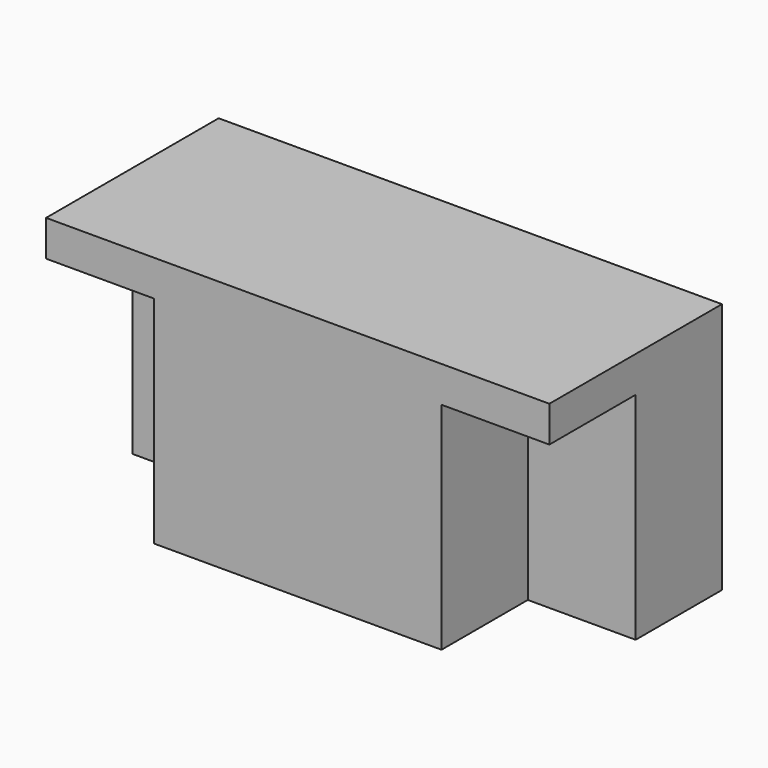
from build123d import *

# Parameters (mm, degrees)
F0_W     = 140
F0_H     = 70
F1_DEPTH = 60
F2_W     = 30
F2_H     = 30
F3_DEPTH = 60
F4_W     = 30
F4_H     = 30
F5_DEPTH = 60


with BuildPart() as f1:
    # F0 (on Front) → F1 (new body)
    with BuildSketch(Plane.XZ):
        with Locations((7.357027, 12.952588)):
            Rectangle(F0_W, F0_H)
    extrude(amount=F1_DEPTH)

    # F2 (on face) → F3 (cut)
    with BuildSketch(Plane(origin=(0, 0, -22.047412), x_dir=(1, 0, 0), z_dir=(0, 0, -1))):
        with Locations((-47.642973, 45)):
            Rectangle(F2_W, F2_H)
    extrude(amount=-F3_DEPTH, mode=Mode.SUBTRACT)

    # F4 (on face) → F5 (cut)
    with BuildSketch(Plane(origin=(0, 0, -22.047412), x_dir=(1, 0, 0), z_dir=(0, 0, -1))):
        with Locations((62.357027, 45)):
            Rectangle(F4_W, F4_H)
    extrude(amount=-F5_DEPTH, mode=Mode.SUBTRACT)


solid = f1.part
